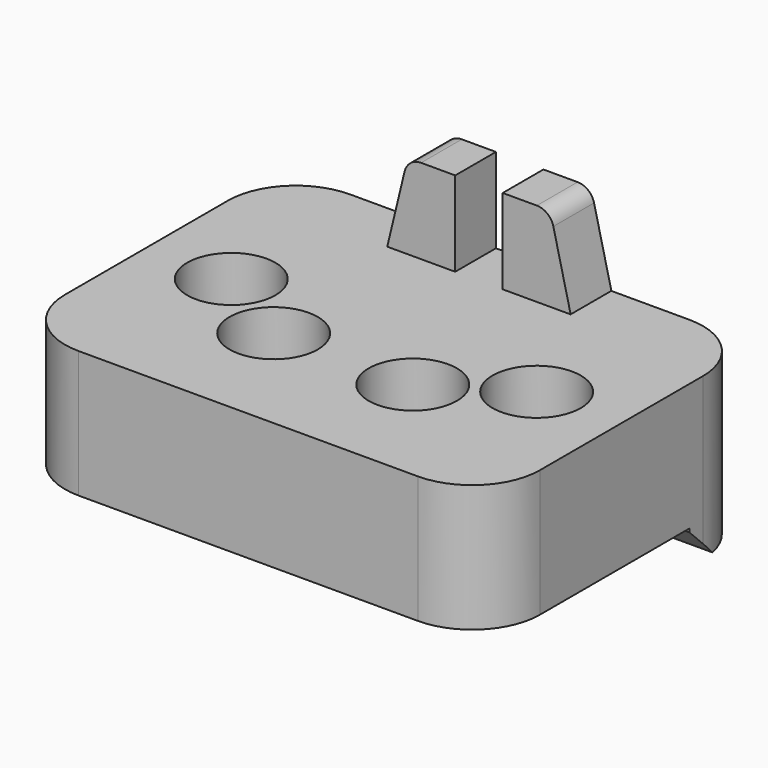
from build123d import *

# Parameters (mm, degrees)
SKETCH_W        = 35.56
SKETCH_H        = 25.4
SKETCH_R        = 1.0795
SKETCH_W_2      = 6.35
SKETCH_H_2      = 0.762
PAD_DEPTH       = 1.905
SKETCH001_W     = 35.56
SKETCH001_H     = 25.4
PAD001_DEPTH    = 7.62
SKETCH002_R     = 3.302
POCKET_DEPTH    = 7.62
SKETCH003_W     = 35.56
SKETCH003_H     = 6.35
PAD002_DEPTH    = 2.54
SKETCH004_W     = 5.08
SKETCH004_H     = 3.81
PAD003_DEPTH    = 6.35
CHAMFER_1_SIZE2 = 1.524
CHAMFER_1_SIZE  = 6.3246
CHAMFER_2_SIZE2 = 1.524
CHAMFER_2_SIZE  = 6.3246
FILLET_R        = 1.27
FILLET001_R     = 5.08
CHAMFER001_SIZE = 2.286


with BuildPart() as part:
    # Sketch → Pad (new body)
    with BuildSketch(Plane.XY):
        Rectangle(SKETCH_W, SKETCH_H)
        with Locations((-11.43, 0)):
            Circle(SKETCH_R, mode=Mode.SUBTRACT)
        with Locations((11.43, 0)):
            Circle(SKETCH_R, mode=Mode.SUBTRACT)
        with Locations((5.207, -4.191)):
            Rectangle(SKETCH_W_2, SKETCH_H_2, mode=Mode.SUBTRACT)
        with Locations((-5.207, -4.191)):
            Rectangle(SKETCH_W_2, SKETCH_H_2, mode=Mode.SUBTRACT)
    extrude(amount=PAD_DEPTH)

    # Sketch001 (on Face16 of Pad) → Pad001 (join)
    with BuildSketch(Plane.XY.offset(1.905)):
        Rectangle(SKETCH001_W, SKETCH001_H)
    extrude(amount=PAD001_DEPTH)

    # Sketch002 (on Face17 of Pad001) → Pocket (cut)
    with BuildSketch(Plane.XY.offset(9.525)):
        with Locations((-5.207, -3.81)):
            Circle(SKETCH002_R)
        with Locations((5.207, -3.81)):
            Circle(SKETCH002_R)
        with Locations((11.43, 0)):
            Circle(SKETCH002_R)
        with Locations((-11.43, 0)):
            Circle(SKETCH002_R)
    extrude(amount=-POCKET_DEPTH, mode=Mode.SUBTRACT)

    # Sketch003 (on Face1 of Pocket) → Pad002 (join)
    with BuildSketch(Plane(origin=(0, 0, 0), x_dir=(1, 0, 0), z_dir=(0, 0, -1))):
        with Locations((0, -9.525)):
            Rectangle(SKETCH003_W, SKETCH003_H)
    extrude(amount=PAD002_DEPTH)

    # Sketch004 (on Face15 of Pad002) → Pad003 (join)
    with BuildSketch(Plane.XY.offset(9.525)):
        with Locations((-4.318, 10.795)):
            Rectangle(SKETCH004_W, SKETCH004_H)
        with Locations((4.318, 10.795)):
            Rectangle(SKETCH004_W, SKETCH004_H)
    extrude(amount=PAD003_DEPTH)

    # Chamfer 1
    chamfer_1_edges = [part.edges().sort_by_distance(p)[0] for p in [
        (-6.858, 10.795, 15.875),
    ]]
    chamfer_1_side = part.faces().sort_by_distance((-6.858, 10.795, 12.7))[0]
    chamfer(chamfer_1_edges, length=CHAMFER_1_SIZE, length2=CHAMFER_1_SIZE2, reference=chamfer_1_side)

    # Chamfer 2
    chamfer_2_edges = [part.edges().sort_by_distance(p)[0] for p in [
        (6.858, 10.795, 15.875),
    ]]
    chamfer_2_side = part.faces().sort_by_distance((6.858, 10.795, 12.7))[0]
    chamfer(chamfer_2_edges, length=CHAMFER_2_SIZE, length2=CHAMFER_2_SIZE2, reference=chamfer_2_side)

    # Fillet
    fillet_edges = [part.edges().sort_by_distance(p)[0] for p in [
        (-5.334, 10.795, 15.875),
        (5.334, 10.795, 15.875),
    ]]
    fillet(fillet_edges, radius=FILLET_R)

    # Fillet001
    fillet001_edges = [part.edges().sort_by_distance(p)[0] for p in [
        (-17.78, -12.7, 4.7625),
        (-17.78, 12.7, 3.4925),
        (17.78, -12.7, 4.7625),
        (17.78, 12.7, 3.4925),
    ]]
    fillet(fillet001_edges, radius=FILLET001_R)

    # Chamfer001
    chamfer001_edges = [part.edges().sort_by_distance(p)[0] for p in [
        (0, 6.35, -2.54),
    ]]
    chamfer(chamfer001_edges, length=CHAMFER001_SIZE)


solid = part.part
